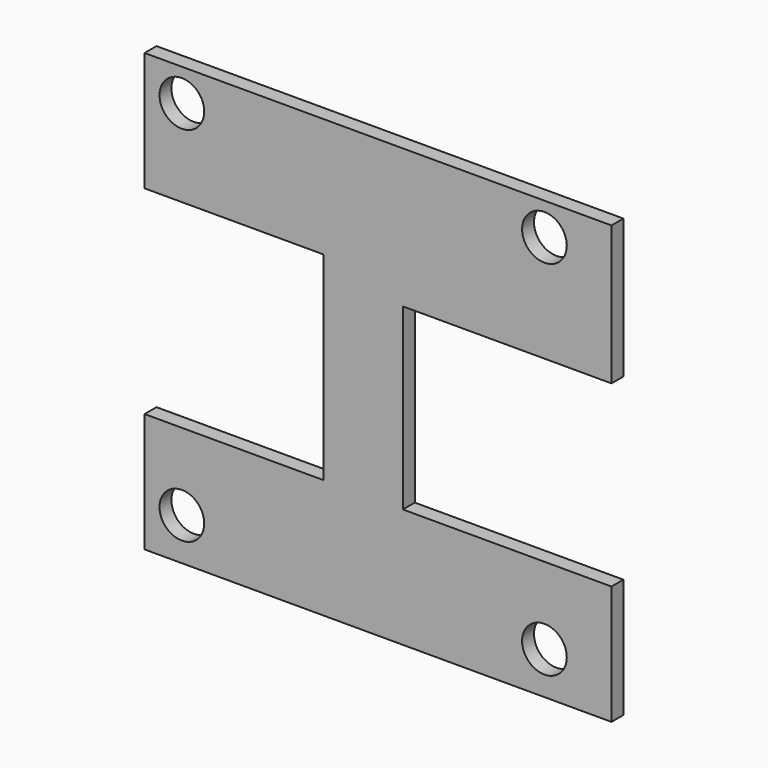
from build123d import *

# Parameters (mm, degrees)
BOX002_W               = 21
BOX002_H               = 18
BOX002_DEPTH           = 10
BOX001_W               = 18
BOX001_H               = 20
BOX001_DEPTH           = 10
CYLINDER002_R          = 2.25
CYLINDER002_DEPTH      = 10
CYLINDER003_R          = 2.25
CYLINDER003_DEPTH      = 10
CYLINDER004_R          = 2.25
CYLINDER004_DEPTH      = 10
CYLINDER005_R          = 2.25
CYLINDER005_DEPTH      = 10
BOX_W                  = 44
BOX_H                  = 47
BOX_DEPTH              = 1.5
CUT002_PLACEMENT_ANGLE = 90


with BuildPart() as obj1:
    # Box002 → Box002 (new body)
    with BuildSketch(Plane(origin=(-21, 12, -1), x_dir=(1, 0, 0), z_dir=(0, 0, 1))):
        with Locations((10.5, 9)):
            Rectangle(BOX002_W, BOX002_H)
    extrude(amount=BOX002_DEPTH)


with BuildPart() as compound001:
    # Box001 → Box001 (new body)
    with BuildSketch(Plane(origin=(-47, 12, -1), x_dir=(1, 0, 0), z_dir=(0, 0, 1))):
        with Locations((9, 10)):
            Rectangle(BOX001_W, BOX001_H)
    extrude(amount=BOX001_DEPTH)

    # Compound001: union obj1
    add(obj1.part)


with BuildPart() as zylinder002:
    # Cylinder002 → Cylinder002 (new body)
    with BuildSketch(Plane(origin=(-6.75, 4.25, -1), x_dir=(1, 0, 0), z_dir=(0, 0, 1))):
        Circle(CYLINDER002_R)
    extrude(amount=CYLINDER002_DEPTH)


with BuildPart() as zylinder003:
    # Cylinder003 → Cylinder003 (new body)
    with BuildSketch(Plane(origin=(-43.25, 4.25, -1), x_dir=(1, 0, 0), z_dir=(0, 0, 1))):
        Circle(CYLINDER003_R)
    extrude(amount=CYLINDER003_DEPTH)


with BuildPart() as zylinder004:
    # Cylinder004 → Cylinder004 (new body)
    with BuildSketch(Plane(origin=(-6.75, 40.75, -1), x_dir=(1, 0, 0), z_dir=(0, 0, 1))):
        Circle(CYLINDER004_R)
    extrude(amount=CYLINDER004_DEPTH)


with BuildPart() as compound:
    # Cylinder005 → Cylinder005 (new body)
    with BuildSketch(Plane(origin=(-43.25, 40.75, -1), x_dir=(1, 0, 0), z_dir=(0, 0, 1))):
        Circle(CYLINDER005_R)
    extrude(amount=CYLINDER005_DEPTH)

    # Compound: union Zylinder002, Zylinder003, Zylinder004
    add(zylinder002.part)
    add(zylinder003.part)
    add(zylinder004.part)


with BuildPart() as cut002:
    # Box → Box (new body)
    with BuildSketch(Plane(origin=(0, 0, 0), x_dir=(0, 1, 0), z_dir=(0, 0, 1))):
        with Locations((22, 23.5)):
            Rectangle(BOX_W, BOX_H)
    extrude(amount=BOX_DEPTH)

    # Cut001: cut Compound
    add(compound.part, mode=Mode.SUBTRACT)

    # Cut002: cut Compound001
    add(compound001.part, mode=Mode.SUBTRACT)


with BuildPart() as cut002_1:
    # Cut002 placement: moved
    add(cut002.part.moved(Location((23.5, 2, 9))).rotate(Axis((23.5, 2, 9), (1, 0, 0)), CUT002_PLACEMENT_ANGLE))


solid = cut002_1.part
